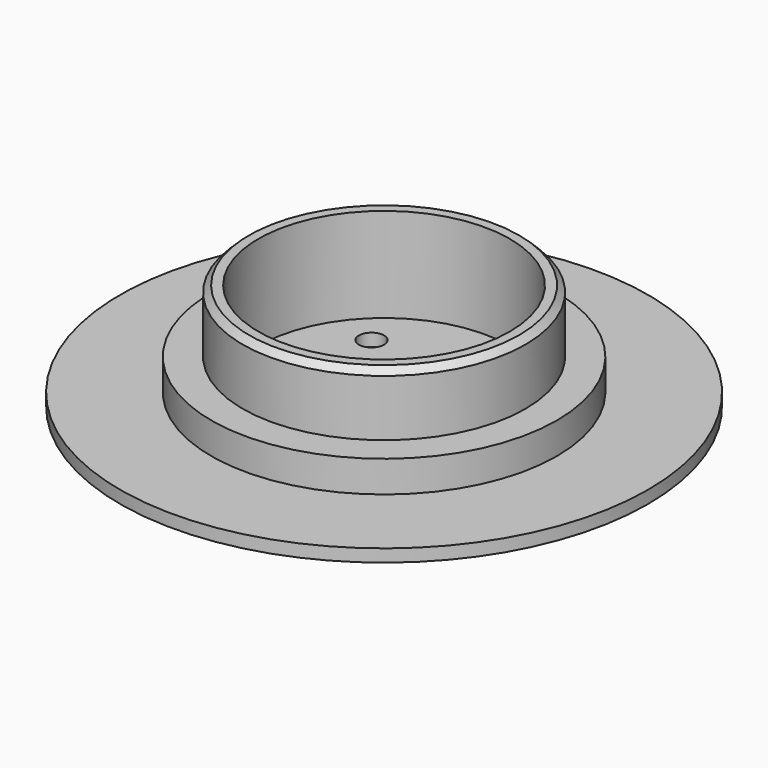
from build123d import *

# Parameters (mm, degrees)
SKETCH_R      = 42
PAD_DEPTH     = 2
SKETCH001_R   = 27.5
SKETCH001_R_2 = 20
PAD001_DEPTH  = 5
SKETCH002_R   = 22.5
SKETCH002_R_2 = 20
PAD002_DEPTH  = 10
CHAMFER_SIZE  = 1
SKETCH003_R   = 2
POCKET_DEPTH  = 2.001


with BuildPart() as part:
    # Sketch → Pad (new body)
    with BuildSketch(Plane.XY):
        Circle(SKETCH_R)
    extrude(amount=PAD_DEPTH)

    # Sketch001 (on Face3 of Pad) → Pad001 (join)
    with BuildSketch(Plane.XY.offset(2)):
        Circle(SKETCH001_R)
        Circle(SKETCH001_R_2, mode=Mode.SUBTRACT)
    extrude(amount=PAD001_DEPTH)

    # Sketch002 (on Face5 of Pad001) → Pad002 (join)
    with BuildSketch(Plane.XY.offset(7)):
        Circle(SKETCH002_R)
        Circle(SKETCH002_R_2, mode=Mode.SUBTRACT)
    extrude(amount=PAD002_DEPTH)

    # Chamfer
    chamfer_edges = [part.edges().sort_by_distance(p)[0] for p in [
        (-22.5, 0, 17),
    ]]
    chamfer(chamfer_edges, length=CHAMFER_SIZE)

    # Sketch003 (on Face10 of Chamfer) → Pocket (cut, through all)
    with BuildSketch(Plane.XY.offset(2)):
        with Locations((-10, 10)):
            Circle(SKETCH003_R)
        with Locations((10, 10)):
            Circle(SKETCH003_R)
        with Locations((10, -10)):
            Circle(SKETCH003_R)
        with Locations((-10, -10)):
            Circle(SKETCH003_R)
    extrude(amount=-POCKET_DEPTH, mode=Mode.SUBTRACT)


solid = part.part
